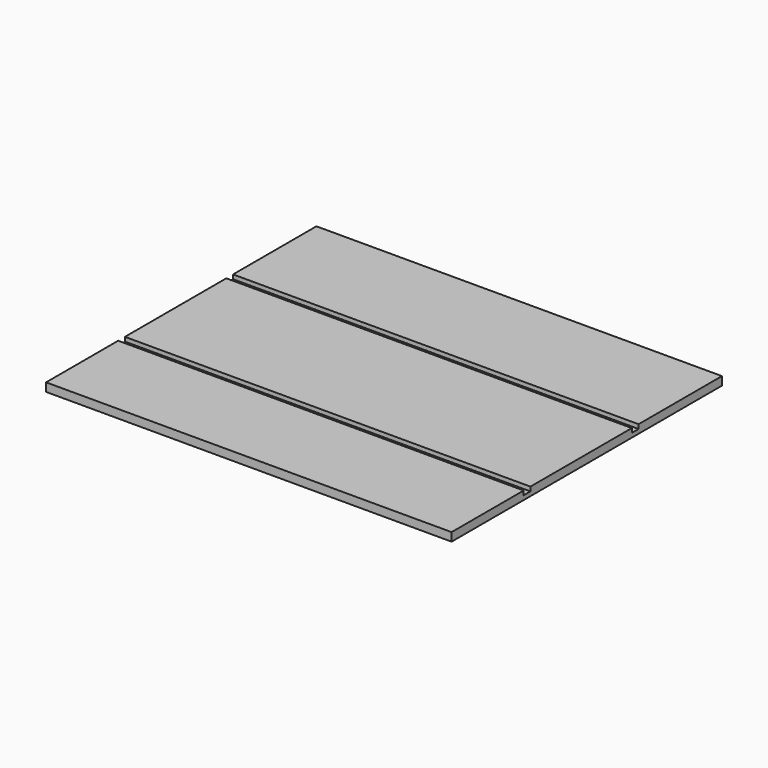
from build123d import *

# Parameters (mm, degrees)
F0_W     = 762
F0_H     = 19.05
F1_DEPTH = 914.4
F2_W     = 19.05
F2_H     = 9.525
F3_DEPTH = 914.401
F4_W     = 38.1
F4_H     = 38.1
F5_DEPTH = 711.2


with BuildPart() as f1:
    # F0 (on Right) → F1 (new body)
    with BuildSketch(Plane.YZ):
        with Locations((381, 9.525)):
            Rectangle(F0_W, F0_H)
    extrude(amount=-F1_DEPTH)

    # F2 (on face) → F3 (cut, through all)
    with BuildSketch(Plane.YZ):
        with Locations((212.725, 14.2875)):
            Rectangle(F2_W, F2_H)
        with Locations((517.525, 14.2875)):
            Rectangle(F2_W, F2_H)
    extrude(amount=-F3_DEPTH, mode=Mode.SUBTRACT)


with BuildPart() as f5:
    # F4 (on face) → F5 (new body)
    with BuildSketch(Plane(origin=(0, 0, 0), x_dir=(1, 0, 0), z_dir=(0, 0, -1))):
        with Locations((-895.35, -31.75)):
            Rectangle(F4_W, F4_H)
    extrude(amount=F5_DEPTH)


solid = f1.part
